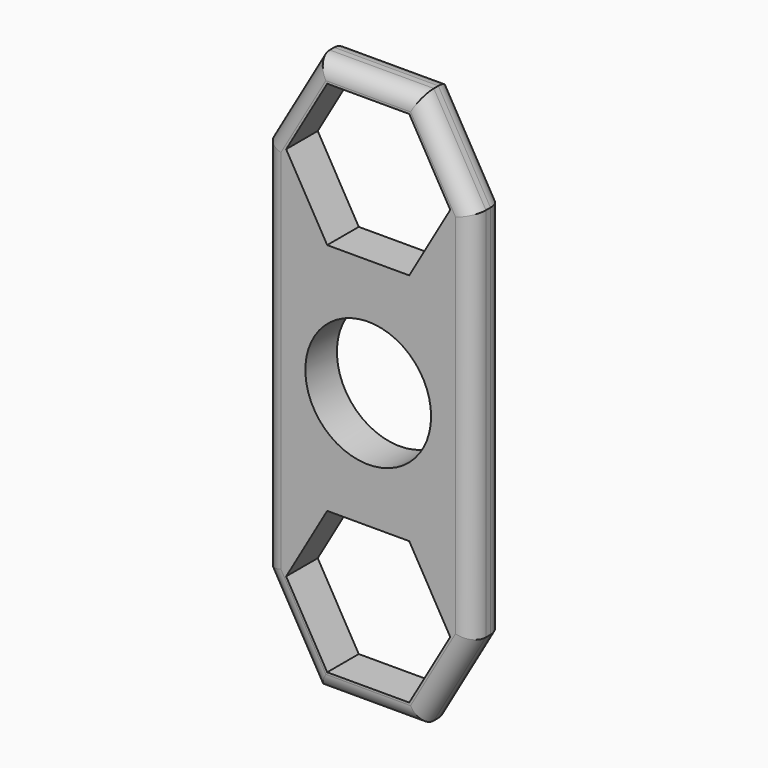
from build123d import *

# Parameters (mm, degrees)
F0_R     = 14.5
F0_R_2   = 11.15
F1_DEPTH = 7
F2_R     = 3


with BuildPart() as f1:
    # F0 (on Front) → F1 (new body)
    with BuildSketch(Plane.XZ):
        Polygon((18.475209, 33.341233), (9.237604, 17.341233), (-9.237604, 17.341233), (-18.475209, 33.341233), (-18.475209, -33.341233), (-9.237604, -17.341233), (9.237604, -17.341233), (18.475209, -33.341233), align=None)
        Circle(F0_R, mode=Mode.SUBTRACT)
        Polygon((-9.237604, 17.341233), (9.237604, 17.341233), (18.475209, 33.341233), (9.237604, 49.341233), (-9.237604, 49.341233), (-18.475209, 33.341233), align=None)
        Polygon((14.549227, 33.341233), (7.274613, 20.741233), (-7.274613, 20.741233), (-14.549227, 33.341233), (-7.274613, 45.941233), (7.274613, 45.941233), align=None, mode=Mode.SUBTRACT)
        Polygon((9.237604, -49.341233), (18.475209, -33.341233), (9.237604, -17.341233), (-9.237604, -17.341233), (-18.475209, -33.341233), (-9.237604, -49.341233), align=None)
        Polygon((-14.549227, -33.341233), (-7.274613, -20.741233), (7.274613, -20.741233), (14.549227, -33.341233), (7.274613, -45.941233), (-7.274613, -45.941233), align=None, mode=Mode.SUBTRACT)
        Circle(F0_R)
        Circle(F0_R_2, mode=Mode.SUBTRACT)
    extrude(amount=F1_DEPTH)

    # F2
    f2_edges = [f1.edges().sort_by_distance(p)[0] for p in [
        (-13.856406, -7, 41.341233),
        (0, -7, 49.341233),
        (13.856406, -7, 41.341233),
        (18.475209, -7, 0),
        (-18.475209, -7, 0),
        (-13.856406, -7, -41.341233),
        (0, -7, -49.341233),
        (13.856406, -7, -41.341233),
        (0, 0, -49.341233),
        (13.856406, 0, -41.341233),
        (18.475209, 0, 0),
        (-18.475209, 0, 0),
        (-13.856406, 0, 41.341233),
        (0, 0, 49.341233),
        (13.856406, 0, 41.341233),
        (-13.856406, 0, -41.341233),
    ]]
    fillet(f2_edges, radius=F2_R)


solid = f1.part
